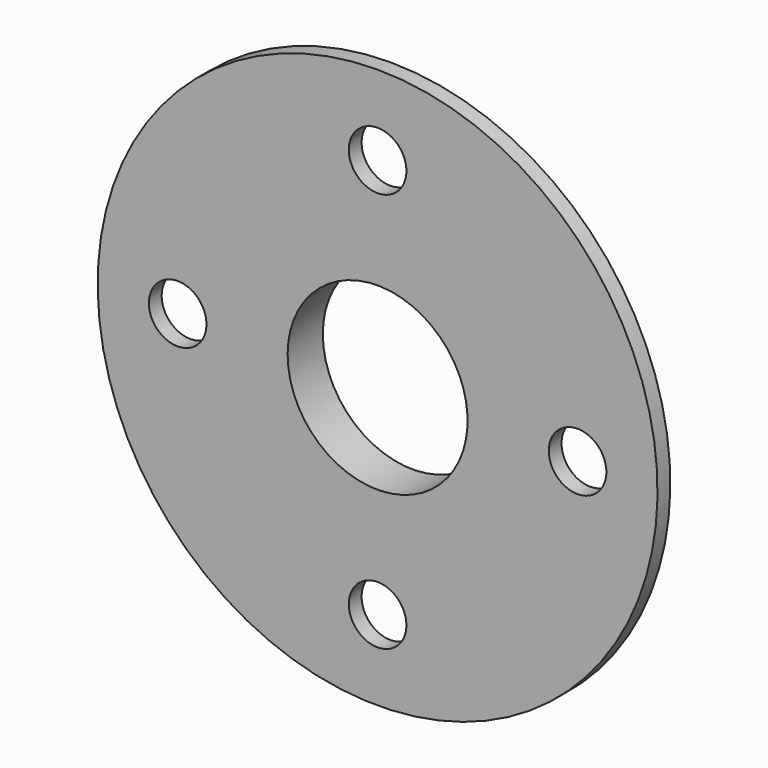
from build123d import *

# Parameters (mm, degrees)
F3_D = 28.575
F4_D = 9.144


with BuildPart() as f1:
    # F0 (on Right) → F1 (revolve)
    with BuildSketch(Plane.YZ):
        Polygon((0, 44.45), (0, 0), (6.985, 0), (6.985, 20.6375), (2.54, 20.6375), (2.54, 44.45), align=None)
    revolve(axis=Axis((0, 6.35, 0), (0, 1, 0)))

    # F3 (through all)
    with Locations(Plane.XZ):
        with Locations((0, 0)):
            Hole(F3_D / 2)

    # F4 (through all)
    with Locations(Plane.XZ):
        with Locations((0, 31.75), (31.75, 0), (0, -31.75), (-31.75, 0)):
            Hole(F4_D / 2)


solid = f1.part
